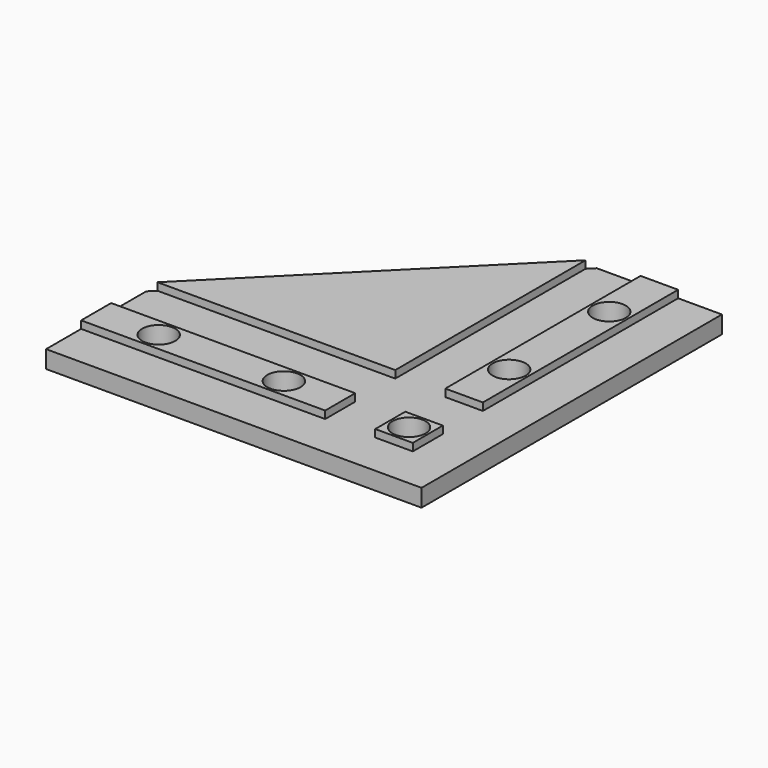
from build123d import *

# Parameters (mm, degrees)
SKETCH_R        = 2.65
PAD_DEPTH       = 4
SKETCH001_W     = 7
SKETCH001_H     = 1.2
SKETCH001_W_2   = 8
POCKET_DEPTH    = 60.001
SKETCH002_W     = 7
SKETCH002_H     = 1.2
SKETCH002_W_2   = 8
POCKET001_DEPTH = 60.001


with BuildPart() as part:
    # Sketch → Pad (new body)
    with BuildSketch(Plane.XY):
        Polygon((0, 0), (0, 60), (-20, 60), (-60, 20), (-60, 0), align=None)
        with Locations((-50, 10)):
            Circle(SKETCH_R, mode=Mode.SUBTRACT)
        with Locations((-10, 10)):
            Circle(SKETCH_R, mode=Mode.SUBTRACT)
        with Locations((-30, 10)):
            Circle(SKETCH_R, mode=Mode.SUBTRACT)
        with Locations((-10, 50)):
            Circle(SKETCH_R, mode=Mode.SUBTRACT)
        with Locations((-10, 30)):
            Circle(SKETCH_R, mode=Mode.SUBTRACT)
    extrude(amount=PAD_DEPTH)

    # Sketch001 → Pocket (cut, through all)
    with BuildSketch(Plane.XZ):
        with Locations((-3.5, 3.4)):
            Rectangle(SKETCH001_W, SKETCH001_H)
        with Locations((-17, 3.4)):
            Rectangle(SKETCH001_W_2, SKETCH001_H)
    extrude(amount=-POCKET_DEPTH, mode=Mode.SUBTRACT)

    # Sketch002 → Pocket001 (cut, through all)
    with BuildSketch(Plane.YZ):
        with Locations((3.5, 3.4)):
            Rectangle(SKETCH002_W, SKETCH002_H)
        with Locations((17, 3.4)):
            Rectangle(SKETCH002_W_2, SKETCH002_H)
    extrude(amount=-POCKET001_DEPTH, mode=Mode.SUBTRACT)


solid = part.part
